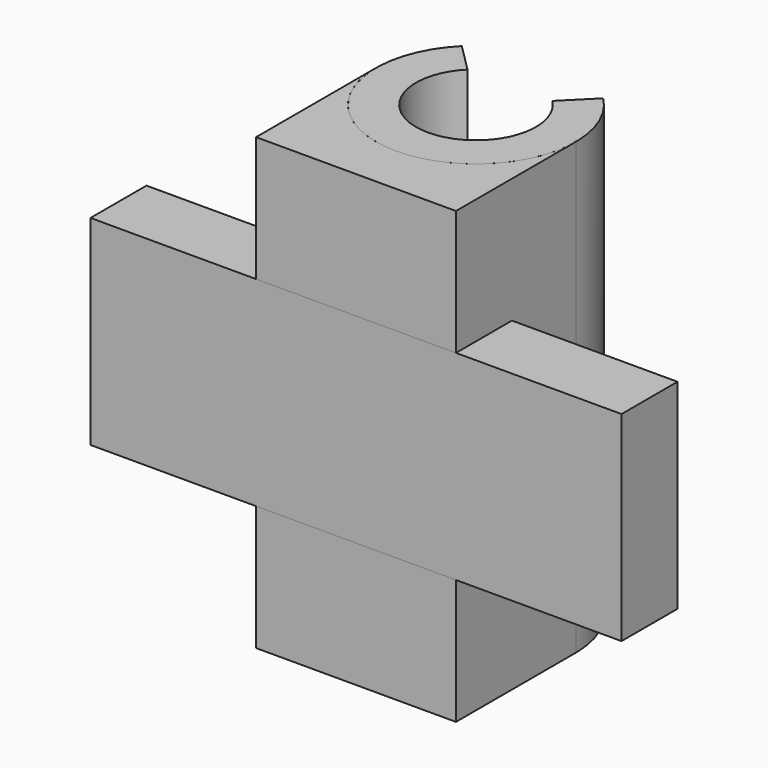
from build123d import *

# Parameters (mm, degrees)
PAD_DEPTH    = 22.5
PAD001_DEPTH = 22.5
SKETCH004_W  = 53.124624
SKETCH004_H  = 7
PAD002_DEPTH = 10


with BuildPart() as pad:
    # Sketch → Pad (new body, symmetric)
    with BuildSketch(Plane.XY):
        with BuildLine():
            ThreePointArc((-7.071068, 7.071068), (0, -10), (7.071068, 7.071068))
            Line((7.071068, 7.071068), (4.242641, 4.242641))
            ThreePointArc((-4.242641, 4.242641), (0, -6), (4.242641, 4.242641))
            Line((-4.242641, 4.242641), (-7.071068, 7.071068))
        make_face()
    extrude(amount=PAD_DEPTH, both=True)


with BuildPart() as pad001:
    # Sketch003 → Pad001 (new body, symmetric)
    with BuildSketch(Plane.XY):
        with BuildLine():
            ThreePointArc((-10, 0), (0, -10), (10, 0))
            Line((10, 0), (10, -15))
            Line((-10, -15), (10, -15))
            Line((-10, 0), (-10, -15))
        make_face()
    extrude(amount=PAD001_DEPTH, both=True)


with BuildPart() as pad002:
    # Sketch004 → Pad002 (new body, symmetric)
    with BuildSketch(Plane.XY):
        with Locations((0, -11.5)):
            Rectangle(SKETCH004_W, SKETCH004_H)
    extrude(amount=PAD002_DEPTH, both=True)


solid = Compound([pad.part, pad001.part, pad002.part])
